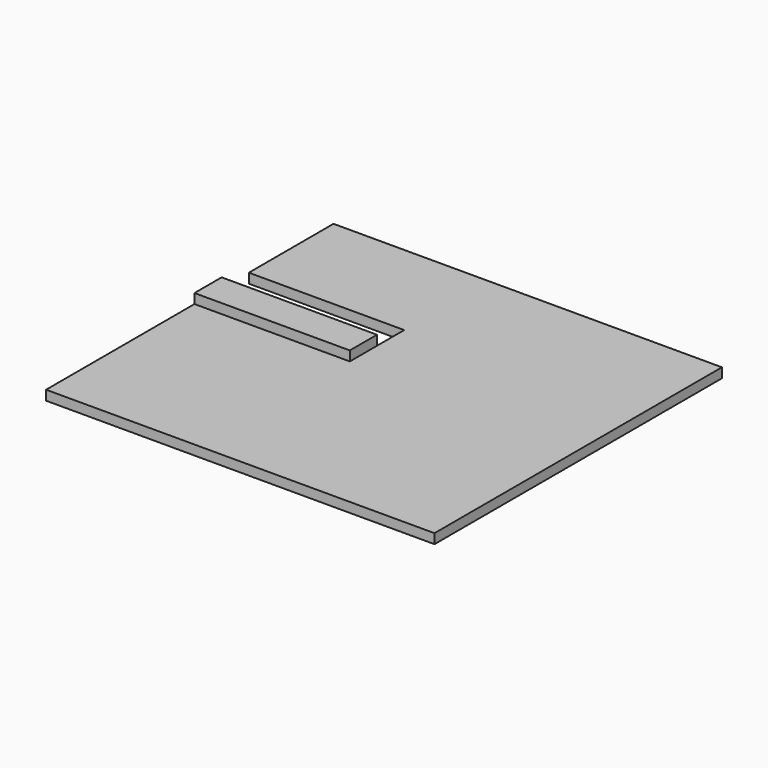
from build123d import *

# Parameters (mm, degrees)
F1_DEPTH = 5
F0_W     = 80
F0_H     = 17.5
F2_DEPTH = 10


with BuildPart() as f1:
    # F0 (on Top) → F1 (new body)
    with BuildSketch(Plane.XY):
        Polygon((-134.385, -69.823), (65.615, -69.823), (65.615, 115.177), (-134.385, 115.177), (-134.385, 60.677), (-54.385, 60.677), (-54.385, 43.177), (-54.385, 25.677), (-134.385, 25.677), align=None)
    extrude(amount=F1_DEPTH)

    # F0 (on Top) → F2 (join)
    with BuildSketch(Plane.XY):
        with Locations((-94.385, 34.427)):
            Rectangle(F0_W, F0_H)
    extrude(amount=F2_DEPTH)


solid = f1.part
